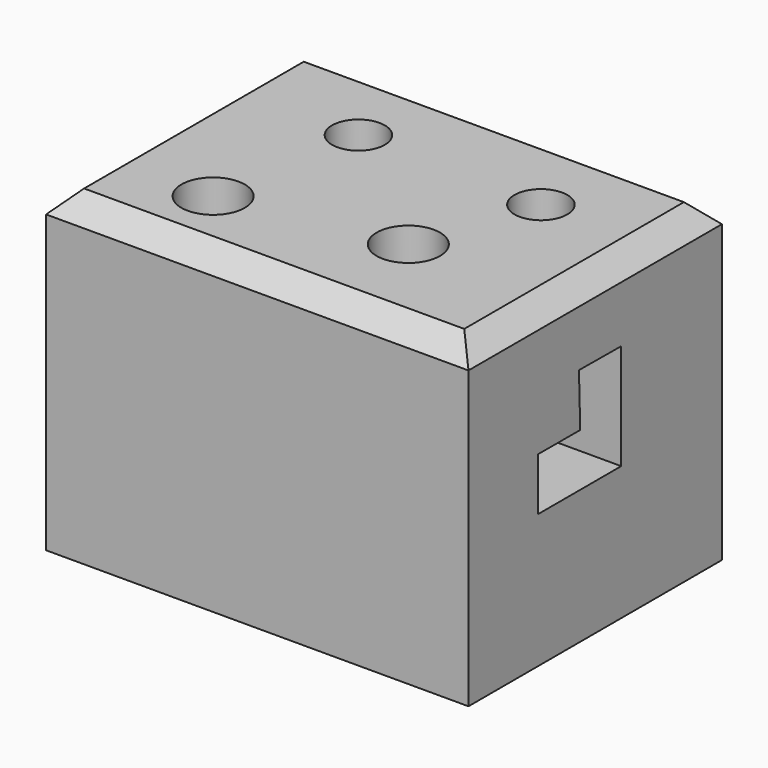
from build123d import *

# Parameters (mm, degrees)
F0_W     = 1016
F0_H     = 762
F1_DEPTH = 762
F2_SIZE  = 50.8
F3_R     = 63.5
F3_R_2   = 76.2
F4_DEPTH = 474.98
F6_DEPTH = 254
F7_R     = 25.4


with BuildPart() as f1:
    # F0 (on Top) → F1 (new body)
    with BuildSketch(Plane.XY):
        Rectangle(F0_W, F0_H)
    extrude(amount=F1_DEPTH)

    # F2
    f2_edges = [f1.edges().sort_by_distance(p)[0] for p in [
        (0, -381, 762),
        (508, 0, 762),
        (0, 381, 762),
        (-508, 0, 762),
    ]]
    chamfer(f2_edges, length=F2_SIZE)

    # F3 (on face) → F4 (cut)
    with BuildSketch(Plane.XY.offset(762)):
        with Locations((254, 154.278123)):
            Circle(F3_R)
        with Locations((160.084128, -127)):
            Circle(F3_R_2)
        with Locations((-190.5, 161.287912)):
            Circle(F3_R)
        with Locations((-248.486163, -203.2)):
            Circle(F3_R_2)
    extrude(amount=-F4_DEPTH, mode=Mode.SUBTRACT)

    # F5 (on face) → F6 (cut)
    with BuildSketch(Plane.YZ.offset(508)):
        Polygon((-172.04284, 448.87892), (-172.04284, 321.87892), (78.168072, 321.87892), (78.168072, 575.87892), (-48.828607, 576.797382), (-45.043587, 448.443412), align=None)
    extrude(amount=-F6_DEPTH, mode=Mode.SUBTRACT)

    # F7
    f7_edges = [f1.edges().sort_by_distance(p)[0] for p in [
        (254, -108.543213, 448.661166),
        (254, -46.936097, 512.620397),
        (254, 14.669732, 576.338151),
        (254, 78.168072, 448.87892),
        (254, -46.937384, 321.87892),
        (254, -172.04284, 385.37892),
    ]]
    fillet(f7_edges, radius=F7_R)


solid = f1.part
